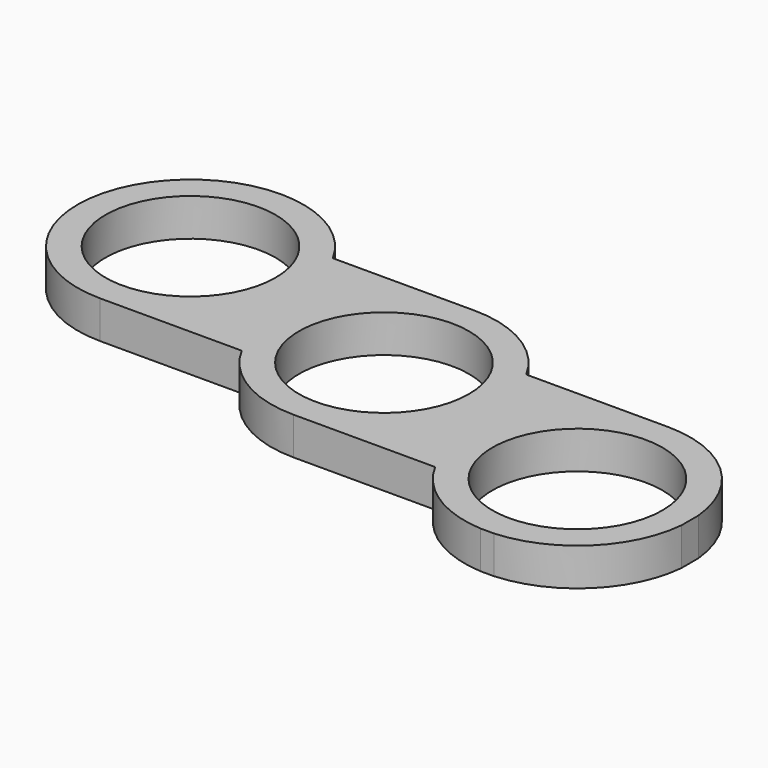
from build123d import *

# Parameters (mm, degrees)
F0_R     = 14.351
F1_DEPTH = 6.35


with BuildPart() as f1:
    # F0 (on Top) → F1 (new body)
    with BuildSketch(Plane.XY):
        with BuildLine():
            ThreePointArc((-40.64, -9.05), (-27.169616, -3.470384), (-21.59, 10))
            ThreePointArc((-21.59, 10), (-22.170584, 14.667243), (-23.876945, 19.05))
            ThreePointArc((-23.876945, 19.05), (-30.880389, 26.360089), (-40.64, 29.05))
            ThreePointArc((-40.64, 29.05), (-54.057468, 23.523093), (-59.689414, 10.149374))
            ThreePointArc((-59.689414, 10.149374), (-54.163093, -3.417468), (-40.64, -9.05))
        make_face()
        with Locations((-40.64, 10)):
            Circle(F0_R, mode=Mode.SUBTRACT)
        with BuildLine():
            ThreePointArc((-23.876945, 19.05), (-22.170584, 14.667243), (-21.59, 10))
            ThreePointArc((-21.59, 10), (-27.169616, -3.470384), (-40.64, -9.05))
            Line((-40.64, -9.05), (-16.763055, -9.05))
            ThreePointArc((-16.763055, -9.05), (-16.360089, 9.759611), (0, 19.05))
            Line((0, 19.05), (-23.876945, 19.05))
        make_face()
        with BuildLine():
            ThreePointArc((16.763055, 9.05), (9.759611, 16.360089), (0, 19.05))
            ThreePointArc((0, 19.05), (-16.360089, 9.759611), (-16.763055, -9.05))
            ThreePointArc((-16.763055, -9.05), (-9.759611, -16.360089), (0, -19.05))
            ThreePointArc((0, -19.05), (13.470384, -13.470384), (19.05, 0))
            ThreePointArc((19.05, 0), (18.469416, 4.667243), (16.763055, 9.05))
        make_face()
        Circle(F0_R, mode=Mode.SUBTRACT)
        with BuildLine():
            Line((40.64, 9.05), (16.763055, 9.05))
            ThreePointArc((16.763055, 9.05), (18.469416, 4.667243), (19.05, 0))
            ThreePointArc((19.05, 0), (13.470384, -13.470384), (0, -19.05))
            Line((0, -19.05), (23.876945, -19.05))
            ThreePointArc((23.876945, -19.05), (24.279911, -0.240389), (40.64, 9.05))
        make_face()
        with BuildLine():
            ThreePointArc((59.605625, -8.209036), (53.461557, 4.089364), (40.64, 9.05))
            ThreePointArc((40.64, 9.05), (24.279911, -0.240389), (23.876945, -19.05))
            ThreePointArc((23.876945, -19.05), (30.389176, -26.056871), (39.486138, -29.015023))
            Line((39.486138, -29.015023), (41.793862, -29.015023))
            ThreePointArc((41.793862, -29.015023), (53.882564, -23.694415), (59.605625, -11.790964))
            Line((59.605625, -11.790964), (59.605625, -8.209036))
        make_face()
        with Locations((40.64, -10)):
            Circle(F0_R, mode=Mode.SUBTRACT)
    extrude(amount=F1_DEPTH)


solid = f1.part
